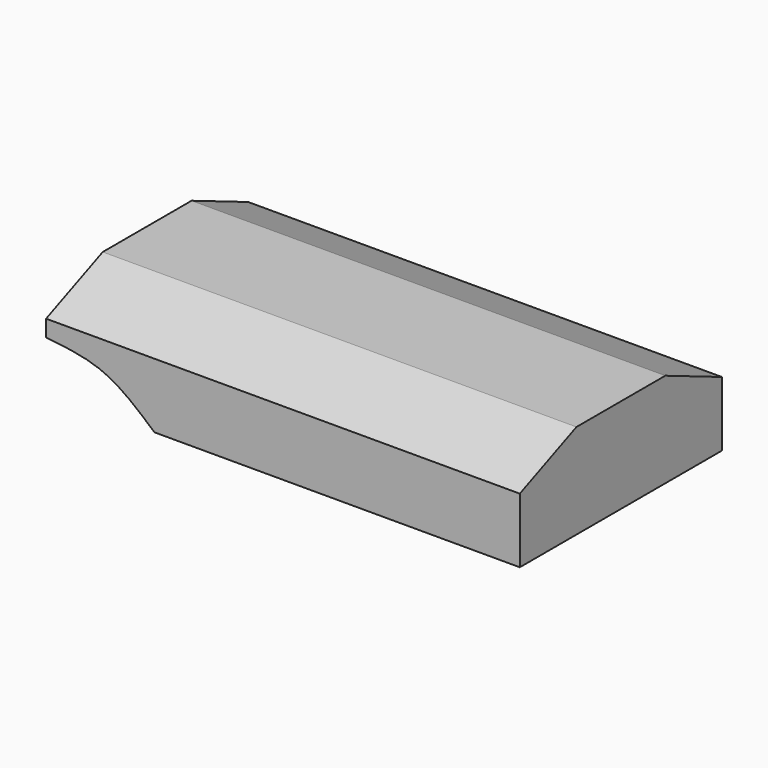
from build123d import *

# Parameters (mm, degrees)
F1_DEPTH = 95.25
F3_DEPTH = 50.8


with BuildPart() as f1:
    # F0 (on Right) → F1 (new body)
    with BuildSketch(Plane.YZ):
        Polygon((11.1626323232, 9.360581603), (3.29e-07, 9.360581603), (-11.1626316652, 9.360581603), (-25.399999671, 3.3447921903), (-25.399999671, -9.689418397), (3.29e-07, -9.689418397), (25.400000329, -9.689418397), (25.400000329, 3.3447921903), align=None)
    extrude(amount=F1_DEPTH)

    # F2 (on face) → F3 (cut)
    with BuildSketch(Plane.XZ.offset(25.399999671)):
        with BuildLine():
            add(Edge.make_bspline(
                [(0, 0), (4.0075147817, -0.4097913285), (12.1363401145, -1.2410102545), (18.5397503355, -6.8471222831), (21.7862762511, -9.689418397)],
                knots=[0, 0, 0, 0, 0.4930004789, 1, 1, 1, 1], degree=3))
            Line((0, 0), (0, -9.689418397))
            Line((0, -9.689418397), (21.7862762511, -9.689418397))
        make_face()
    extrude(amount=-F3_DEPTH, mode=Mode.SUBTRACT)


solid = f1.part
